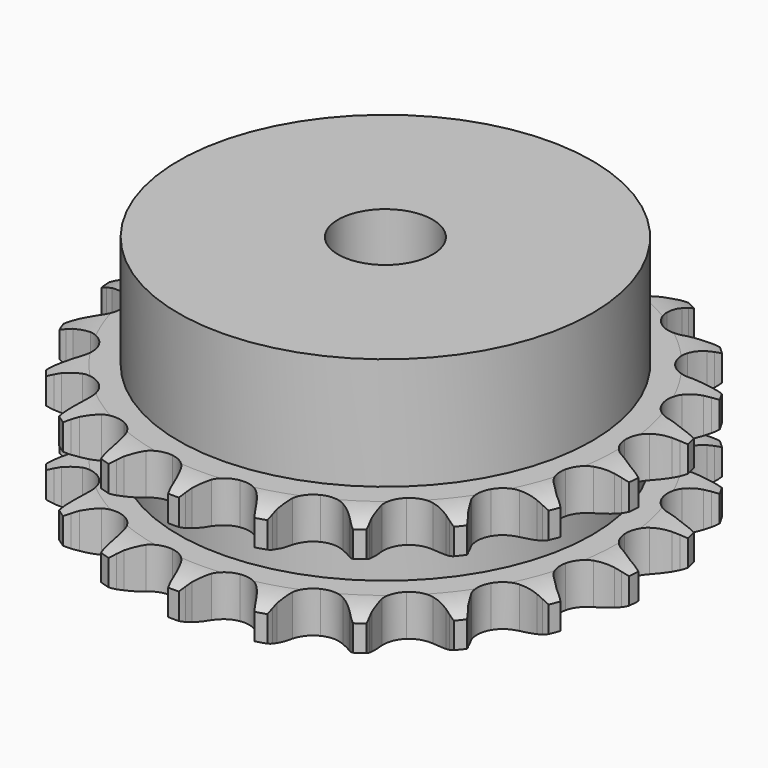
from build123d import *

# Parameters (mm, degrees)
PAD_DEPTH         = 21
SKETCH001_R       = 35
PAD001_DEPTH      = 40
SKETCH002_R       = 8
POCKET_DEPTH      = 0.001
POCKET_DEPTH_BACK = 40.001


with BuildPart() as part:
    # Sprocket → Pad (new body)
    with BuildSketch(Plane.XY):
        with BuildLine():
            ThreePointArc((-6.913563, 45.868493), (-5.990553, 44.773338), (-5.309548, 43.51336))
            Line((-5.309548, 43.51336), (-4.898754, 42.52278))
            ThreePointArc((-4.898754, 42.52278), (-4.238507, 41.19022), (-3.406386, 39.957655))
            ThreePointArc((-3.406386, 39.957655), (-1.89613, 38.72999), (0, 38.290989))
            ThreePointArc((0, 38.290989), (1.89613, 38.72999), (3.406386, 39.957655))
            ThreePointArc((3.406386, 39.957655), (4.238507, 41.19022), (4.898754, 42.52278))
            Line((4.898754, 42.52278), (5.309548, 43.51336))
            ThreePointArc((5.309548, 43.51336), (5.990553, 44.773338), (6.913563, 45.868493))
            ThreePointArc((6.913563, 45.868493), (7.472764, 44.549931), (7.752128, 43.1452))
            Line((7.752128, 43.1452), (7.852693, 42.077545))
            ThreePointArc((7.852693, 42.077545), (8.090828, 40.609576), (8.522676, 39.186498))
            ThreePointArc((8.522676, 39.186498), (9.603975, 37.56822), (11.286467, 36.589828))
            ThreePointArc((11.286467, 36.589828), (13.227756, 36.450431), (15.032775, 37.178398))
            Line((15.032775, 37.178398), (17.214925, 39.189679))
            ThreePointArc((17.214925, 39.189679), (17.547232, 39.610678), (17.899448, 40.015167))
            ThreePointArc((17.899448, 40.015167), (18.921582, 41.018438), (20.126388, 41.792876))
            ThreePointArc((20.126388, 41.792876), (20.272093, 40.368066), (20.124994, 38.9434))
            Line((20.124994, 38.9434), (19.906394, 37.893536))
            ThreePointArc((19.906394, 37.893536), (19.701258, 36.420593), (19.69446, 34.933449))
            ThreePointArc((19.69446, 34.933449), (20.250724, 33.068348), (21.570082, 31.6375))
            ThreePointArc((21.570082, 31.6375), (23.384037, 30.932091), (25.323437, 31.095678))
            Line((25.323437, 31.095678), (28.001475, 32.374403))
            ThreePointArc((28.001475, 32.374403), (28.44311, 32.678749), (28.898903, 32.96145))
            ThreePointArc((28.898903, 32.96145), (30.171346, 33.61887), (31.550896, 34.003779))
            ThreePointArc((31.550896, 34.003779), (31.270157, 32.599322), (30.709666, 31.281308))
            Line((30.709666, 31.281308), (30.191325, 30.34252))
            ThreePointArc((30.191325, 30.34252), (29.561144, 28.99548), (29.116305, 27.57641))
            ThreePointArc((29.116305, 27.57641), (29.098108, 25.630208), (29.937101, 23.874041))
            ThreePointArc((29.937101, 23.874041), (31.462544, 22.6653), (33.363999, 22.24997))
            Line((33.363999, 22.24997), (36.299971, 22.68252))
            ThreePointArc((36.299971, 22.68252), (36.811693, 22.84317), (37.330564, 22.978964))
            ThreePointArc((37.330564, 22.978964), (38.740254, 23.232117), (40.171968, 23.193296))
            ThreePointArc((40.171968, 23.193296), (39.48973, 21.933985), (38.565649, 20.839734))
            Line((38.565649, 20.839734), (37.793624, 20.095437))
            ThreePointArc((37.793624, 20.095437), (36.794394, 18.993992), (35.951039, 17.769086))
            ThreePointArc((35.951039, 17.769086), (35.359997, 15.914712), (35.644076, 13.989269))
            ThreePointArc((35.644076, 13.989269), (36.745465, 12.384596), (38.440024, 11.427255))
            Line((38.440024, 11.427255), (41.373055, 10.975195))
            ThreePointArc((41.373055, 10.975195), (41.909395, 10.977875), (42.44524, 10.954697))
            ThreePointArc((42.44524, 10.954697), (43.86692, 10.781089), (45.223584, 10.321988))
            ThreePointArc((45.223584, 10.321988), (44.200468, 9.319718), (42.994905, 8.546459))
            Line((42.994905, 8.546459), (42.037793, 8.062787))
            ThreePointArc((42.037793, 8.062787), (40.758299, 7.304804), (39.591365, 6.3829))
            ThreePointArc((39.591365, 6.3829), (38.479995, 4.785124), (38.18392, 2.861489))
            ThreePointArc((38.18392, 2.861489), (38.763391, 1.003467), (40.100484, -0.410822))
            Line((40.100484, -0.410822), (42.769962, -1.707325))
            ThreePointArc((42.769962, -1.707325), (43.283264, -1.862852), (43.788471, -2.042944))
            ThreePointArc((43.788471, -2.042944), (45.095817, -2.627886), (46.256887, -3.466474))
            ThreePointArc((46.256887, -3.466474), (44.9838, -4.122648), (43.603875, -4.506207))
            Line((43.603875, -4.506207), (42.54672, -4.686277))
            ThreePointArc((42.54672, -4.686277), (41.100651, -5.033447), (39.713825, -5.570434))
            ThreePointArc((39.713825, -5.570434), (38.180877, -6.769643), (37.330954, -8.520547))
            ThreePointArc((37.330954, -8.520547), (37.33702, -10.466824), (38.19784, -12.212395))
            Line((38.19784, -12.212395), (40.36657, -14.238141))
            ThreePointArc((40.36657, -14.238141), (40.811224, -14.538057), (41.240904, -14.85906))
            ThreePointArc((41.240904, -14.85906), (42.317754, -15.803362), (43.180062, -16.946925))
            ThreePointArc((43.180062, -16.946925), (41.770125, -17.198698), (40.338449, -17.158477))
            Line((40.338449, -17.158477), (39.275184, -17.018945))
            ThreePointArc((39.275184, -17.018945), (37.79103, -16.924455), (36.307537, -17.02881))
            ThreePointArc((36.307537, -17.02881), (34.489221, -17.722898), (33.160969, -19.145494))
            ThreePointArc((33.160969, -19.145494), (32.59309, -21.007092), (32.901151, -22.928844))
            Line((32.901151, -22.928844), (34.376431, -25.503835))
            ThreePointArc((34.376431, -25.503835), (34.712929, -25.921491), (35.028901, -26.354883))
            ThreePointArc((35.028901, -26.354883), (35.779572, -27.57464), (36.266499, -28.921568))
            ThreePointArc((36.266499, -28.921568), (34.84499, -28.746569), (33.488775, -28.28614))
            Line((33.488775, -28.28614), (32.513876, -27.839404))
            ThreePointArc((32.513876, -27.839404), (31.12351, -27.311651), (29.675165, -26.974102))
            ThreePointArc((29.675165, -26.974102), (27.733045, -27.101396), (26.044487, -28.069281))
            ThreePointArc((26.044487, -28.069281), (24.953122, -29.680788), (24.68105, -31.607964))
            Line((24.68105, -31.607964), (25.331795, -34.503402))
            ThreePointArc((25.331795, -34.503402), (25.530237, -35.001687), (25.704427, -35.50896))
            ThreePointArc((25.704427, -35.50896), (26.062218, -36.89579), (26.130498, -38.326402))
            ThreePointArc((26.130498, -38.326402), (24.823725, -37.74018), (23.663477, -36.900456))
            Line((23.663477, -36.900456), (22.863567, -36.186211))
            ThreePointArc((22.863567, -36.186211), (21.69053, -35.272086), (20.406024, -34.522627))
            ThreePointArc((20.406024, -34.522627), (18.512667, -34.071815), (16.613837, -34.498989))
            ThreePointArc((16.613837, -34.498989), (15.095959, -35.717216), (14.267929, -37.478578))
            Line((14.267929, -37.478578), (14.036318, -40.43719))
            ThreePointArc((14.036318, -40.43719), (14.079072, -40.97183), (14.096002, -41.507909))
            ThreePointArc((14.096002, -41.507909), (14.029122, -42.938587), (13.672688, -44.325767))
            ThreePointArc((13.672688, -44.325767), (12.596763, -43.380411), (11.735574, -42.236005))
            Line((11.735574, -42.236005), (11.18173, -41.317714))
            ThreePointArc((11.18173, -41.317714), (10.33025, -40.098442), (9.323719, -39.003665))
            ThreePointArc((9.323719, -39.003665), (7.647358, -38.014805), (5.706976, -37.86331))
            ThreePointArc((5.706976, -37.86331), (3.897453, -38.580012), (2.58704, -40.019056))
            Line((2.58704, -40.019056), (1.493653, -42.777957))
            ThreePointArc((1.493653, -42.777957), (1.376919, -43.301446), (1.235085, -43.818699))
            ThreePointArc((1.235085, -43.818699), (0.749477, -45.166102), (0, -46.386593))
            ThreePointArc((0, -46.386593), (-0.749477, -45.166102), (-1.235085, -43.818699))
            Line((-1.235085, -43.818699), (-1.493653, -42.777957))
            ThreePointArc((-1.493653, -42.777957), (-1.947917, -41.361876), (-2.58704, -40.019056))
            ThreePointArc((-2.58704, -40.019056), (-3.897453, -38.580012), (-5.706976, -37.86331))
            ThreePointArc((-5.706976, -37.86331), (-7.647358, -38.014805), (-9.323719, -39.003665))
            Line((-9.323719, -39.003665), (-11.18173, -41.317714))
            ThreePointArc((-11.18173, -41.317714), (-11.447579, -41.783538), (-11.735574, -42.236005))
            ThreePointArc((-11.735574, -42.236005), (-12.596763, -43.380411), (-13.672688, -44.325767))
            ThreePointArc((-13.672688, -44.325767), (-14.029122, -42.938587), (-14.096002, -41.507909))
            Line((-14.096002, -41.507909), (-14.036318, -40.43719))
            ThreePointArc((-14.036318, -40.43719), (-14.053003, -38.950125), (-14.267929, -37.478578))
            ThreePointArc((-14.267929, -37.478578), (-15.095959, -35.717216), (-16.613837, -34.498989))
            ThreePointArc((-16.613837, -34.498989), (-18.512667, -34.071815), (-20.406024, -34.522627))
            Line((-20.406024, -34.522627), (-22.863567, -36.186211))
            ThreePointArc((-22.863567, -36.186211), (-23.254909, -36.55298), (-23.663477, -36.900456))
            ThreePointArc((-23.663477, -36.900456), (-24.823725, -37.74018), (-26.130498, -38.326402))
            ThreePointArc((-26.130498, -38.326402), (-26.062218, -36.89579), (-25.704427, -35.50896))
            Line((-25.704427, -35.50896), (-25.331795, -34.503402))
            ThreePointArc((-25.331795, -34.503402), (-24.909419, -33.077485), (-24.68105, -31.607964))
            ThreePointArc((-24.68105, -31.607964), (-24.953122, -29.680788), (-26.044487, -28.069281))
            ThreePointArc((-26.044487, -28.069281), (-27.733045, -27.101396), (-29.675165, -26.974102))
            Line((-29.675165, -26.974102), (-32.513876, -27.839404))
            ThreePointArc((-32.513876, -27.839404), (-32.995939, -28.074529), (-33.488775, -28.28614))
            ThreePointArc((-33.488775, -28.28614), (-34.84499, -28.746569), (-36.266499, -28.921568))
            ThreePointArc((-36.266499, -28.921568), (-35.779572, -27.57464), (-35.028901, -26.354883))
            Line((-35.028901, -26.354883), (-34.376431, -25.503835))
            ThreePointArc((-34.376431, -25.503835), (-33.552523, -24.265765), (-32.901151, -22.928844))
            ThreePointArc((-32.901151, -22.928844), (-32.59309, -21.007092), (-33.160969, -19.145494))
            ThreePointArc((-33.160969, -19.145494), (-34.489221, -17.722898), (-36.307537, -17.02881))
            Line((-36.307537, -17.02881), (-39.275184, -17.018945))
            ThreePointArc((-39.275184, -17.018945), (-39.805134, -17.101533), (-40.338449, -17.158477))
            ThreePointArc((-40.338449, -17.158477), (-41.770125, -17.198698), (-43.180062, -16.946925))
            ThreePointArc((-43.180062, -16.946925), (-42.317754, -15.803362), (-41.240904, -14.85906))
            Line((-41.240904, -14.85906), (-40.36657, -14.238141))
            ThreePointArc((-40.36657, -14.238141), (-39.214338, -13.297925), (-38.19784, -12.212395))
            ThreePointArc((-38.19784, -12.212395), (-37.33702, -10.466824), (-37.330954, -8.520547))
            ThreePointArc((-37.330954, -8.520547), (-38.180877, -6.769643), (-39.713825, -5.570434))
            Line((-39.713825, -5.570434), (-42.54672, -4.686277))
            ThreePointArc((-42.54672, -4.686277), (-43.077469, -4.60899), (-43.603875, -4.506207))
            ThreePointArc((-43.603875, -4.506207), (-44.9838, -4.122648), (-46.256887, -3.466474))
            ThreePointArc((-46.256887, -3.466474), (-45.095817, -2.627886), (-43.788471, -2.042944))
            Line((-43.788471, -2.042944), (-42.769962, -1.707325))
            ThreePointArc((-42.769962, -1.707325), (-41.391787, -1.148506), (-40.100484, -0.410822))
            ThreePointArc((-40.100484, -0.410822), (-38.763391, 1.003467), (-38.18392, 2.861489))
            ThreePointArc((-38.18392, 2.861489), (-38.479995, 4.785124), (-39.591365, 6.3829))
            Line((-39.591365, 6.3829), (-42.037793, 8.062787))
            ThreePointArc((-42.037793, 8.062787), (-42.522182, 8.293081), (-42.994905, 8.546459))
            ThreePointArc((-42.994905, 8.546459), (-44.200468, 9.319718), (-45.223584, 10.321988))
            ThreePointArc((-45.223584, 10.321988), (-43.86692, 10.781089), (-42.44524, 10.954697))
            Line((-42.44524, 10.954697), (-41.373055, 10.975195))
            ThreePointArc((-41.373055, 10.975195), (-39.891395, 11.102962), (-38.440024, 11.427255))
            ThreePointArc((-38.440024, 11.427255), (-36.745465, 12.384596), (-35.644076, 13.989269))
            ThreePointArc((-35.644076, 13.989269), (-35.359997, 15.914712), (-35.951039, 17.769086))
            Line((-35.951039, 17.769086), (-37.793624, 20.095437))
            ThreePointArc((-37.793624, 20.095437), (-38.188612, 20.458276), (-38.565649, 20.839734))
            ThreePointArc((-38.565649, 20.839734), (-39.48973, 21.933985), (-40.171968, 23.193296))
            ThreePointArc((-40.171968, 23.193296), (-38.740254, 23.232117), (-37.330564, 22.978964))
            Line((-37.330564, 22.978964), (-36.299971, 22.68252))
            ThreePointArc((-36.299971, 22.68252), (-34.846476, 22.367884), (-33.363999, 22.24997))
            ThreePointArc((-33.363999, 22.24997), (-31.462544, 22.6653), (-29.937101, 23.874041))
            ThreePointArc((-29.937101, 23.874041), (-29.098108, 25.630208), (-29.116305, 27.57641))
            Line((-29.116305, 27.57641), (-30.191325, 30.34252))
            ThreePointArc((-30.191325, 30.34252), (-30.461816, 30.805663), (-30.709666, 31.281308))
            ThreePointArc((-30.709666, 31.281308), (-31.270157, 32.599322), (-31.550896, 34.003779))
            ThreePointArc((-31.550896, 34.003779), (-30.171346, 33.61887), (-28.898903, 32.96145))
            Line((-28.898903, 32.96145), (-28.001475, 32.374403))
            ThreePointArc((-28.001475, 32.374403), (-26.705296, 31.64532), (-25.323437, 31.095678))
            ThreePointArc((-25.323437, 31.095678), (-23.384037, 30.932091), (-21.570082, 31.6375))
            ThreePointArc((-21.570082, 31.6375), (-20.250724, 33.068348), (-19.69446, 34.933449))
            Line((-19.69446, 34.933449), (-19.906394, 37.893536))
            ThreePointArc((-19.906394, 37.893536), (-20.028355, 38.415832), (-20.124994, 38.9434))
            ThreePointArc((-20.124994, 38.9434), (-20.272093, 40.368066), (-20.126388, 41.792876))
            ThreePointArc((-20.126388, 41.792876), (-18.921582, 41.018438), (-17.899448, 40.015167))
            Line((-17.899448, 40.015167), (-17.214925, 39.189679))
            ThreePointArc((-17.214925, 39.189679), (-16.191233, 38.110932), (-15.032775, 37.178398))
            ThreePointArc((-15.032775, 37.178398), (-13.227756, 36.450431), (-11.286467, 36.589828))
            ThreePointArc((-11.286467, 36.589828), (-9.603975, 37.56822), (-8.522676, 39.186498))
            Line((-8.522676, 39.186498), (-7.852693, 42.077545))
            ThreePointArc((-7.852693, 42.077545), (-7.815286, 42.612585), (-7.752128, 43.1452))
            ThreePointArc((-7.752128, 43.1452), (-7.472764, 44.549931), (-6.913563, 45.868493))
        make_face()
    extrude(amount=PAD_DEPTH)

    # Sketch → Groove (revolve, cut)
    with BuildSketch(Plane.XZ):
        with BuildLine():
            ThreePointArc((39.183431, 0), (42.09032, 0.329167), (44.85, 1.3))
            Line((44.85, 1.3), (44.85, 5.7))
            ThreePointArc((44.85, 5.7), (42.09032, 6.670833), (39.183431, 7))
            Line((35, 7), (39.183431, 7))
            Line((35, 14), (35, 7))
            Line((39.183431, 14), (35, 14))
            ThreePointArc((39.183431, 14), (42.09032, 14.329167), (44.85, 15.3))
            Line((44.85, 15.3), (44.85, 19.7))
            ThreePointArc((44.85, 19.7), (42.09032, 20.670833), (39.183431, 21))
            Line((39.183431, 21), (49.183431, 21))
            Line((49.183431, 21), (49.183431, 0))
            Line((39.183431, 0), (49.183431, 0))
        make_face()
    revolve(axis=Axis((0, 0, 0), (0, 0, 1)), mode=Mode.SUBTRACT)

    # Sketch001 → Pad001 (join)
    with BuildSketch(Plane.XY):
        Circle(SKETCH001_R)
    extrude(amount=PAD001_DEPTH)

    # Sketch002 → Pocket (cut, two sides)
    with BuildSketch(Plane.XY) as pocket_sk:
        Circle(SKETCH002_R)
    extrude(amount=-POCKET_DEPTH, mode=Mode.SUBTRACT)
    extrude(pocket_sk.sketch, amount=POCKET_DEPTH_BACK, mode=Mode.SUBTRACT)


solid = part.part
